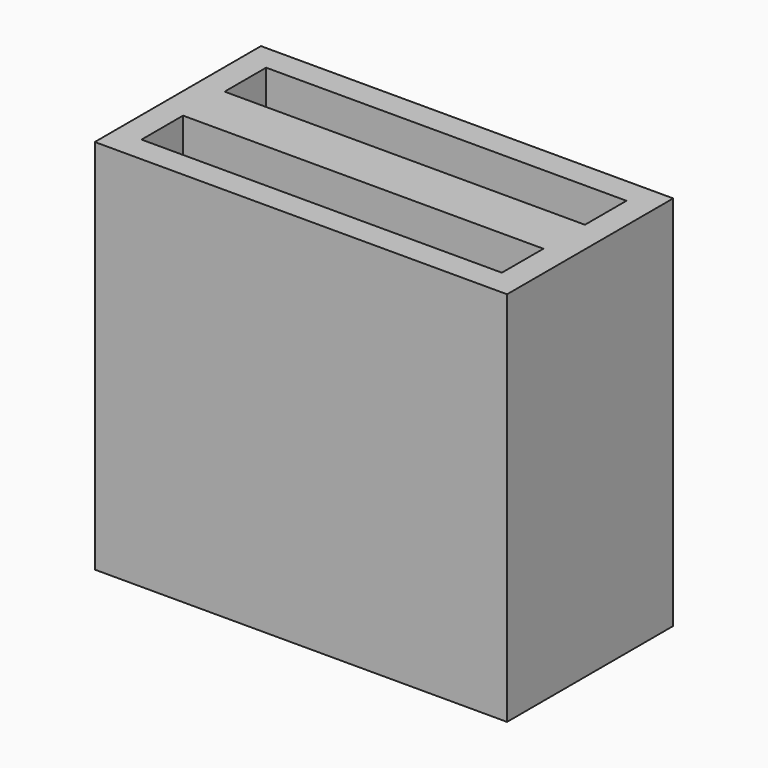
from build123d import *

# Parameters (mm, degrees)
F0_W     = 100.84179
F0_H     = 92.084482
F1_DEPTH = 50.8
F2_W     = 88.14179
F2_H     = 12.7
F3_DEPTH = 101.6


with BuildPart() as f1:
    # F0 (on Front) → F1 (new body)
    with BuildSketch(Plane.XZ):
        Rectangle(F0_W, F0_H)
    extrude(amount=F1_DEPTH)

    # F2 (on face) → F3 (cut)
    with BuildSketch(Plane.XY.offset(46.042241)):
        with Locations((0, -12.7)):
            Rectangle(F2_W, F2_H)
        with Locations((0, -38.1)):
            Rectangle(F2_W, F2_H)
    extrude(amount=-F3_DEPTH, mode=Mode.SUBTRACT)


solid = f1.part
